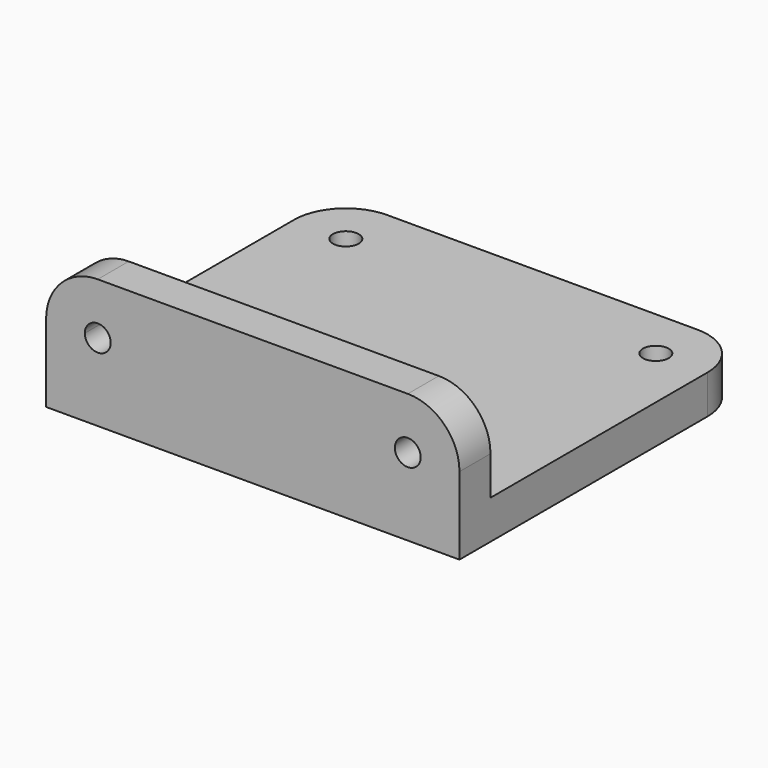
from build123d import *

# Parameters (mm, degrees)
F0_W     = 50.8
F0_H     = 4.7625
F1_DEPTH = 15.875
F0_R     = 1.5875
F2_DEPTH = 4.7625
F4_DEPTH = 25.4


with BuildPart() as f1:
    # F0 (on Top) → F1 (new body)
    with BuildSketch(Plane.XY):
        with Locations((25.4, 2.38125)):
            Rectangle(F0_W, F0_H)
    extrude(amount=F1_DEPTH)

    # F0 (on Top) → F2 (join)
    with BuildSketch(Plane.XY):
        with Locations((25.4, 2.38125)):
            Rectangle(F0_W, F0_H)
        with BuildLine():
            Line((0, 38.1), (0, 4.7625))
            Line((0, 4.7625), (50.8, 4.7625))
            Line((50.8, 4.7625), (50.8, 38.1))
            ThreePointArc((50.8, 38.1), (48.940128, 42.590128), (44.45, 44.45))
            Line((44.45, 44.45), (6.35, 44.45))
            ThreePointArc((6.35, 44.45), (1.859872, 42.590128), (0, 38.1))
        make_face()
        with Locations((15.875, 15.875)):
            Circle(F0_R, mode=Mode.SUBTRACT)
        with Locations((34.925, 15.875)):
            Circle(F0_R, mode=Mode.SUBTRACT)
        with Locations((6.35, 38.1)):
            Circle(F0_R, mode=Mode.SUBTRACT)
        with Locations((44.45, 38.1)):
            Circle(F0_R, mode=Mode.SUBTRACT)
    extrude(amount=F2_DEPTH)

    # F3 (on face) → F4 (cut)
    with BuildSketch(Plane.XZ):
        with BuildLine():
            ThreePointArc((0, 9.525), (1.859872, 14.015128), (6.35, 15.875))
            Line((6.35, 15.875), (0, 15.875))
            Line((0, 15.875), (0, 9.525))
        make_face()
        with BuildLine():
            ThreePointArc((4.7625, 9.525), (6.35, 7.9375), (7.9375, 9.525))
            ThreePointArc((7.9375, 9.525), (7.472532, 10.647532), (6.35, 11.1125))
            Line((6.35, 11.1125), (6.35, 9.525))
            Line((6.35, 9.525), (4.7625, 9.525))
        make_face()
        with BuildLine():
            Line((6.35, 9.525), (6.35, 11.1125))
            ThreePointArc((6.35, 11.1125), (5.227468, 10.647532), (4.7625, 9.525))
            Line((4.7625, 9.525), (6.35, 9.525))
        make_face()
        with BuildLine():
            Line((50.8, 15.875), (44.45, 15.875))
            ThreePointArc((44.45, 15.875), (48.940128, 14.015128), (50.8, 9.525))
            Line((50.8, 9.525), (50.8, 15.875))
        make_face()
        with BuildLine():
            ThreePointArc((46.0375, 9.525), (45.572532, 10.647532), (44.45, 11.1125))
            Line((44.45, 11.1125), (44.45, 9.525))
            Line((44.45, 9.525), (46.0375, 9.525))
        make_face()
        with BuildLine():
            Line((44.45, 9.525), (44.45, 11.1125))
            ThreePointArc((44.45, 11.1125), (43.327468, 8.402468), (46.0375, 9.525))
            Line((46.0375, 9.525), (44.45, 9.525))
        make_face()
    extrude(amount=-F4_DEPTH, mode=Mode.SUBTRACT)


solid = f1.part
